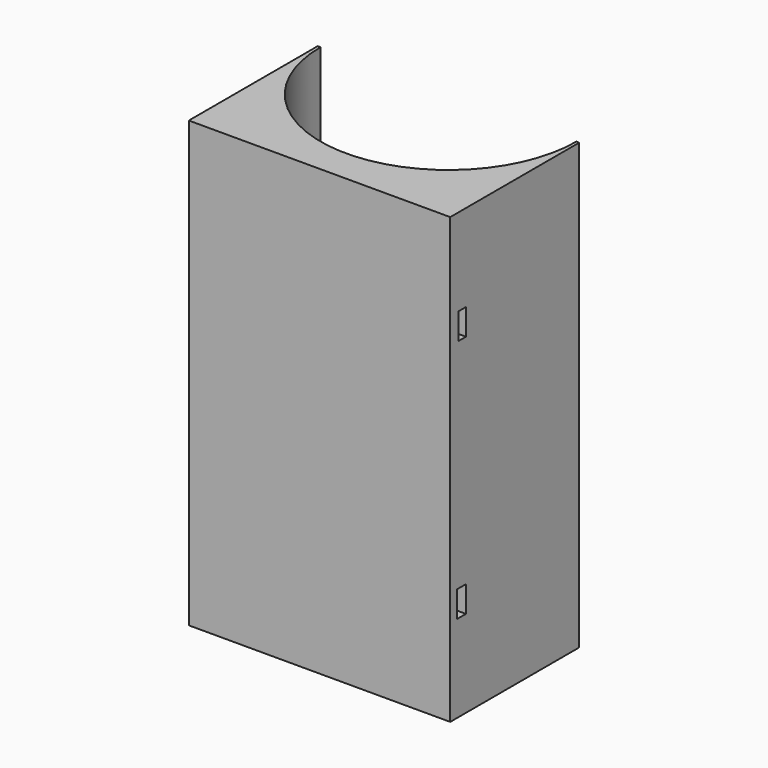
from build123d import *

# Parameters (mm, degrees)
F0_W     = 76.2
F0_H     = 129.54
F1_DEPTH = 46.99
F2_R     = 37.2745
F3_DEPTH = 129.54
F4_W     = 3.175
F4_H     = 7.62
F4_W_2   = 2.777509
F5_DEPTH = 76.2


with BuildPart() as f1:
    # F0 (on Front) → F1 (new body)
    with BuildSketch(Plane.XZ):
        with Locations((0, 64.77)):
            Rectangle(F0_W, F0_H)
    extrude(amount=F1_DEPTH)

    # F2 (on Top) → F3 (cut, through all)
    with BuildSketch(Plane.XY):
        Circle(F2_R)
    extrude(amount=F3_DEPTH, mode=Mode.SUBTRACT)

    # F4 (on face) → F5 (cut, through all)
    with BuildSketch(Plane(origin=(-38.1, 0, 0), x_dir=(0, -1, 0), z_dir=(-1, 0, 0))):
        with Locations((42.8625, 29.21)):
            Rectangle(F4_W, F4_H)
        with Locations((42.663754, 100.33)):
            Rectangle(F4_W_2, F4_H)
    extrude(amount=-F5_DEPTH, mode=Mode.SUBTRACT)


solid = f1.part
